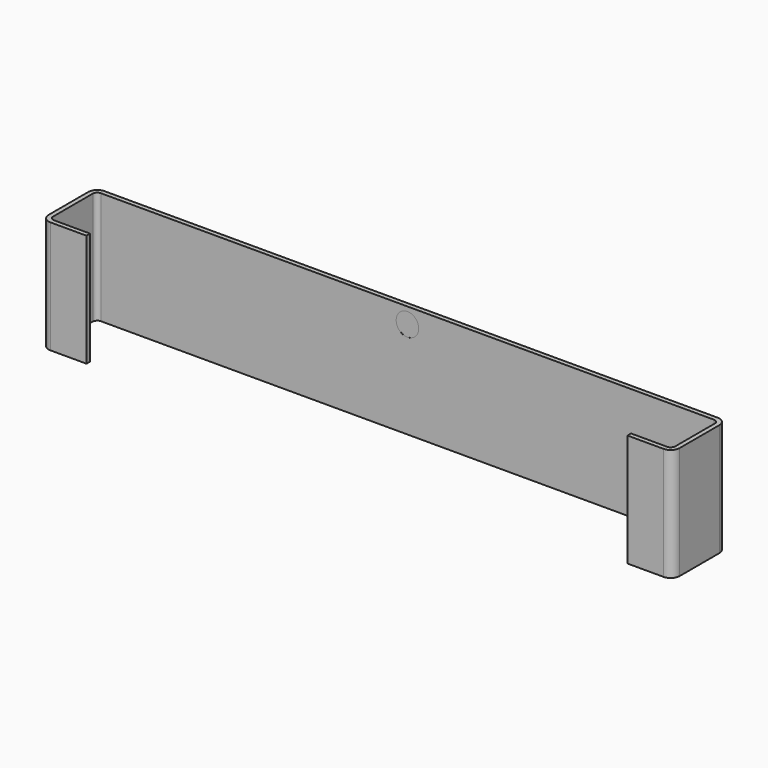
from build123d import *

# Parameters (mm, degrees)
F1_DEPTH = 25
F2_R     = 2
F3_R     = 4
F4_R     = 5
F5_DEPTH = 0.01


with BuildPart() as f1:
    # F0 (on Top) → F1 (new body, symmetric)
    with BuildSketch(Plane.XY):
        Polygon((140, 0), (0, 0), (-140, 0), (-140, -30), (-120, -30), (-120, -28), (-138, -28), (-138, -2), (0, -2), (138, -2), (138, -28), (120, -28), (120, -30), (140, -30), align=None)
    extrude(amount=F1_DEPTH, both=True)

    # F2
    f2_edges = [f1.edges().sort_by_distance(p)[0] for p in [
        (-138, -28, 0),
        (-138, -2, 0),
        (138, -28, 0),
        (138, -2, 0),
    ]]
    fillet(f2_edges, radius=F2_R)

    # F3
    f3_edges = [f1.edges().sort_by_distance(p)[0] for p in [
        (-140, -30, 0),
        (-140, 0, 0),
        (140, -30, 0),
        (140, 0, 0),
    ]]
    fillet(f3_edges, radius=F3_R)

    # F4 (on face) → F5 (cut)
    with BuildSketch(Plane.XZ.offset(2)):
        with Locations((0, 18)):
            Circle(F4_R)
    extrude(amount=-F5_DEPTH, mode=Mode.SUBTRACT)


solid = f1.part
